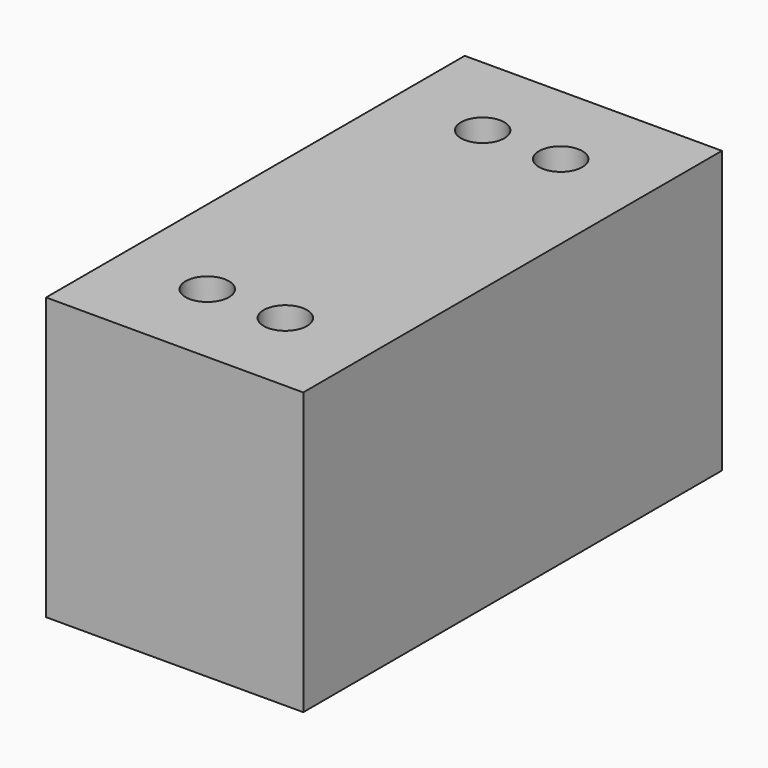
from build123d import *

# Parameters (mm, degrees)
F0_W     = 20.1
F0_H     = 40.9
F0_W_2   = 15.1
F0_H_2   = 35.9
F1_DEPTH = 22
F2_DEPTH = 19.5
F4_R     = 1.695
F5_DEPTH = 25
F7_W     = 3.375
F7_H     = 4.11
F8_DEPTH = 25


with BuildPart() as f1:
    # F0 (on Top) → F1 (new body)
    with BuildSketch(Plane.XY):
        with Locations((7.55, 24.2)):
            Rectangle(F0_W, F0_H)
        with Locations((7.55, 24.2)):
            Rectangle(F0_W_2, F0_H_2, mode=Mode.SUBTRACT)
        with Locations((7.55, 24.2)):
            Rectangle(F0_W_2, F0_H_2)
    extrude(amount=F1_DEPTH)

    # F0 (on Top) → F2 (cut)
    with BuildSketch(Plane.XY):
        with Locations((7.55, 24.2)):
            Rectangle(F0_W_2, F0_H_2)
    extrude(amount=F2_DEPTH, mode=Mode.SUBTRACT)

    # F4 (on offset) → F5 (cut)
    with BuildSketch(Plane.XY.offset(22)):
        with Locations((4.5, 37.65)):
            Circle(F4_R)
        with Locations((10.6, 37.65)):
            Circle(F4_R)
        with Locations((4.5, 10.75)):
            Circle(F4_R)
        with Locations((10.6, 10.75)):
            Circle(F4_R)
    extrude(amount=-F5_DEPTH, mode=Mode.SUBTRACT)

    # F7 (on offset) → F8 (cut)
    with BuildSketch(Plane(origin=(0, 44.65, 0), x_dir=(-1, 0, 0), z_dir=(0, 1, 0))):
        with Locations((-5.8625, 15.2)):
            Rectangle(F7_W, F7_H)
        with Locations((-9.2375, 15.2)):
            Rectangle(F7_W, F7_H)
    extrude(amount=-F8_DEPTH, mode=Mode.SUBTRACT)


solid = f1.part
